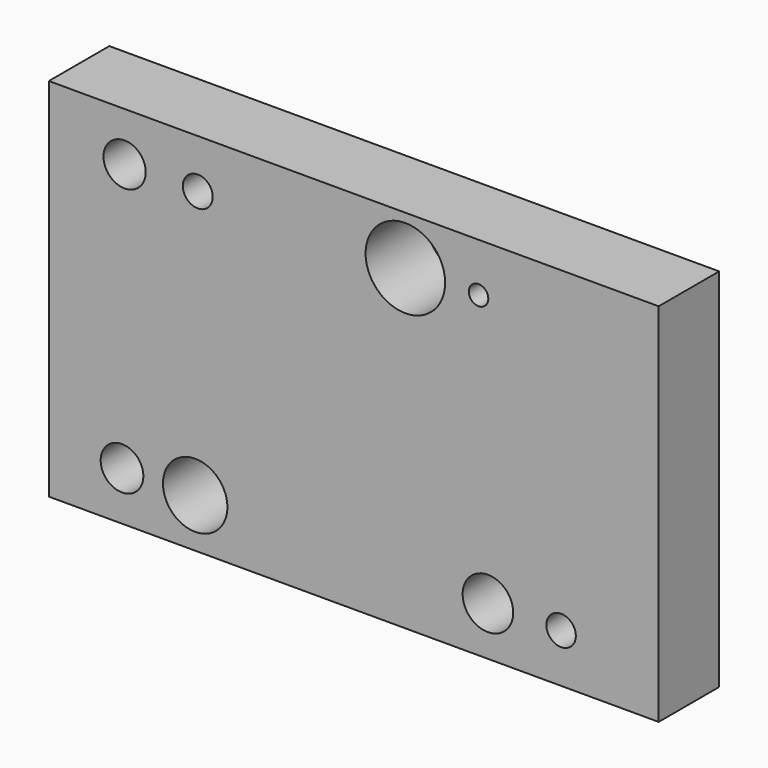
from build123d import *

# Parameters (mm, degrees)
F0_W        = 250
F0_H        = 150
F0_R        = 8.748157
F0_R_2      = 13.213045
F0_R_3      = 10.374042
F0_R_4      = 6.039158
F0_R_5      = 8.665934
F0_R_6      = 6.127755
F0_R_7      = 16.297407
F0_R_8      = 4
F1_DEPTH    = 25
F1_FACE_W   = 250
F1_FACE_H   = 150
F1_FACE_R   = 8.748157
F1_FACE_R_2 = 13.213045
F1_FACE_R_3 = 10.374042
F1_FACE_R_4 = 6.039158
F1_FACE_R_5 = 8.665934
F1_FACE_R_6 = 6.127755
F1_FACE_R_7 = 16.297407
F1_FACE_R_8 = 4
F2_DEPTH    = 6


with BuildPart() as f1:
    # F0 (on Front) → F1 (new body)
    with BuildSketch(Plane.XZ):
        Rectangle(F0_W, F0_H)
        with Locations((-95, -55)):
            Circle(F0_R, mode=Mode.SUBTRACT)
        with Locations((-65, -55)):
            Circle(F0_R_2, mode=Mode.SUBTRACT)
        with Locations((55, -55)):
            Circle(F0_R_3, mode=Mode.SUBTRACT)
        with Locations((85, -55)):
            Circle(F0_R_4, mode=Mode.SUBTRACT)
        with Locations((-93.936627, 55)):
            Circle(F0_R_5, mode=Mode.SUBTRACT)
        with Locations((-63.936627, 55)):
            Circle(F0_R_6, mode=Mode.SUBTRACT)
        with Locations((21.156212, 55)):
            Circle(F0_R_7, mode=Mode.SUBTRACT)
        with Locations((51.156212, 55)):
            Circle(F0_R_8, mode=Mode.SUBTRACT)
    extrude(amount=F1_DEPTH)

    # F1_face (on face) → F2 (join)
    with BuildSketch(Plane(origin=(1.131833, -25, 0.004706), x_dir=(1, 0, 0), z_dir=(0, -1, 0))):
        with Locations((-1.131833, -0.004706)):
            Rectangle(F1_FACE_W, F1_FACE_H)
        with Locations((-96.131833, -55.004706)):
            Circle(F1_FACE_R, mode=Mode.SUBTRACT)
        with Locations((-66.131833, -55.004706)):
            Circle(F1_FACE_R_2, mode=Mode.SUBTRACT)
        with Locations((53.868167, -55.004706)):
            Circle(F1_FACE_R_3, mode=Mode.SUBTRACT)
        with Locations((83.868167, -55.004706)):
            Circle(F1_FACE_R_4, mode=Mode.SUBTRACT)
        with Locations((-95.06846, 54.995294)):
            Circle(F1_FACE_R_5, mode=Mode.SUBTRACT)
        with Locations((-65.06846, 54.995294)):
            Circle(F1_FACE_R_6, mode=Mode.SUBTRACT)
        with Locations((20.024379, 54.995294)):
            Circle(F1_FACE_R_7, mode=Mode.SUBTRACT)
        with Locations((50.024379, 54.995294)):
            Circle(F1_FACE_R_8, mode=Mode.SUBTRACT)
    extrude(amount=F2_DEPTH)


solid = f1.part
